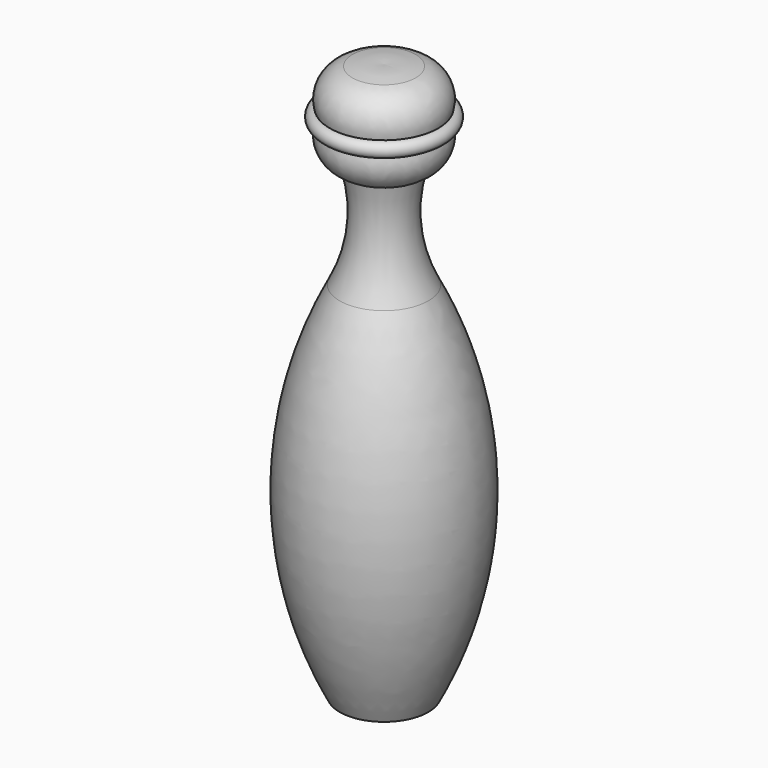
from build123d import *


with BuildPart() as f1:
    # F0 (on Front) → F1 (revolve)
    with BuildSketch(Plane.XZ):
        with BuildLine():
            Line((0, 0), (0, -75))
            Line((0, -75), (6, -75))
            ThreePointArc((6, -75), (12, -50.505103), (6, -26.010205))
            ThreePointArc((6, -26.010205), (3.945528, -19.141246), (4.582765, -12))
            ThreePointArc((4.582765, -12), (7.018369, -10.082073), (7.352187, -7))
            ThreePointArc((7.352187, -7), (8.352187, -6), (7.352187, -5))
            ThreePointArc((7.352187, -5), (6.908913, -1.829982), (4.282762, 0))
            ThreePointArc((4.282762, 0), (2.149886, 0.271574), (0, 0.241506))
            Line((0, 0.241506), (0, 0))
        make_face()
    revolve(axis=Axis((0, 0, -37.5), (0, 0, -1)))


solid = f1.part
